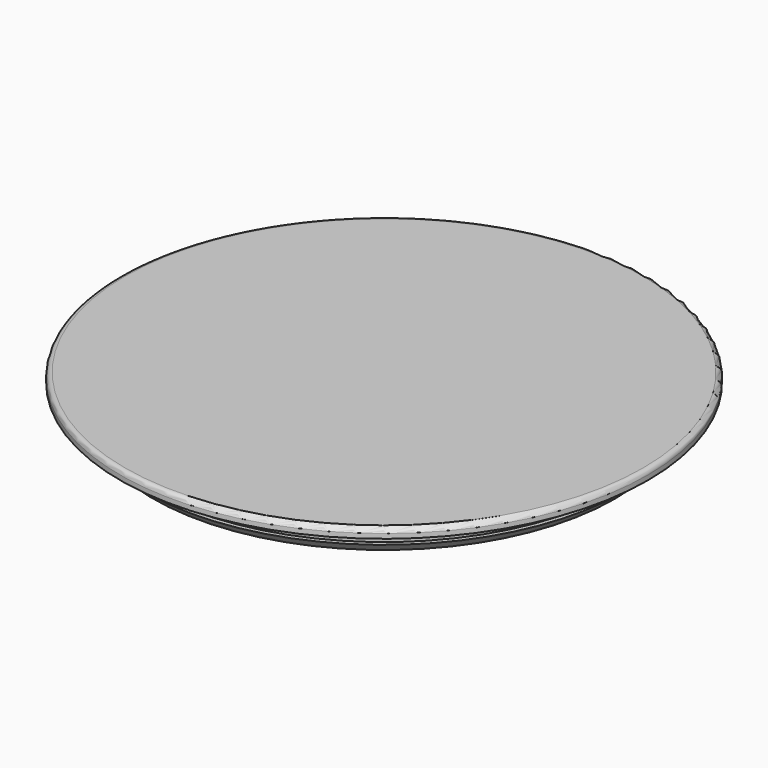
from build123d import *


with BuildPart() as f1:
    # F0 (on Front) → F1 (revolve)
    with BuildSketch(Plane.XZ):
        with BuildLine():
            Line((0, 1), (0, 0))
            Line((0, 0), (0, -2.866025))
            Line((0, -2.866025), (24.5, -2.866025))
            Line((24.5, -2.866025), (25.5, -1.866025))
            Line((25.5, -1.866025), (25, -1.866025))
            Line((25, -1.866025), (25, -1))
            Line((25, -1), (25, -0.25))
            ThreePointArc((25, -0.25), (25.073223, -0.073223), (25.25, 0))
            Line((25.25, 0), (28, 0))
            Line((28, 0), (28, 0.5))
            ThreePointArc((28, 0.5), (27.853553, 0.853553), (27.5, 1))
            Line((27.5, 1), (0, 1))
        make_face()
    revolve(axis=Axis((0, 0, -1.433013), (0, 0, 1)))


solid = f1.part
